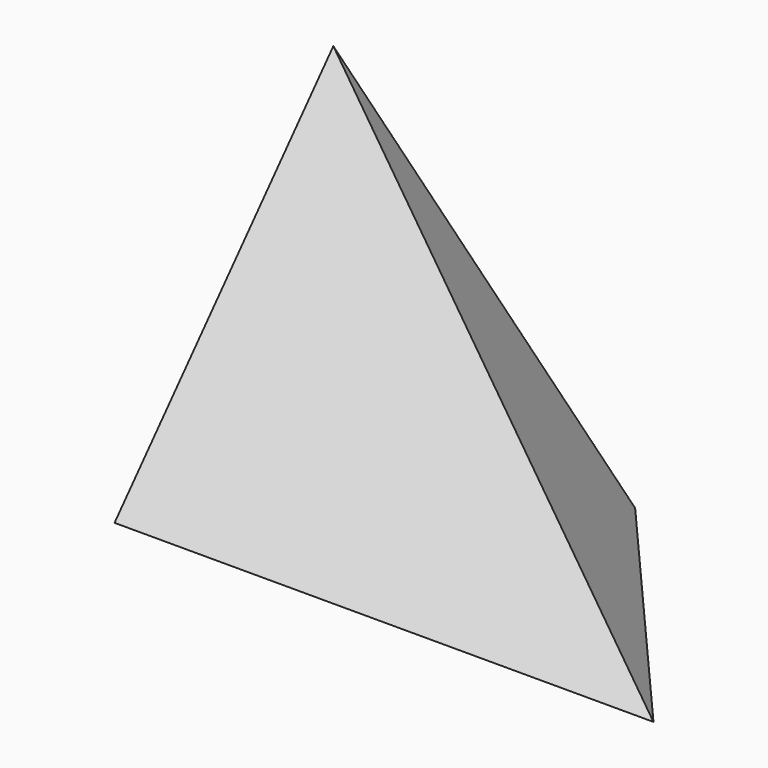
from build123d import *

# Parameters (mm, degrees)
F0_W     = 159.6704572439
F0_H     = 91.4154052735
F1_DEPTH = 81.026
F3_DEPTH = 159.6714572439
F5_DEPTH = 60.6369841733


with BuildPart() as f1:
    # F0 (on Front) → F1 (new body)
    with BuildSketch(Plane.XZ):
        with Locations((-5.7597234845, -5.4780766368)):
            Rectangle(F0_W, F0_H)
    extrude(amount=F1_DEPTH)

    # F2 (on face) → F3 (cut, through all)
    with BuildSketch(Plane.YZ.offset(74.0755051374)):
        Polygon((-81.026, -51.1857792735), (0, 40.229626), (-81.026, 40.229626), align=None)
    extrude(amount=-F3_DEPTH, mode=Mode.SUBTRACT)

    # F4 (on face) → F5 (cut, through all)
    with BuildSketch(Plane(origin=(0, -19.9693104316, 17.699788588), x_dir=(1, 0, 0), z_dir=(0, -0.7483521854, 0.6633015955))):
        Polygon((74.0755051374, 30.1059285345), (-85.5949521065, 30.1059285345), (74.0755051374, -92.049664859), align=None)
    extrude(amount=-F5_DEPTH, mode=Mode.SUBTRACT)


solid = f1.part
